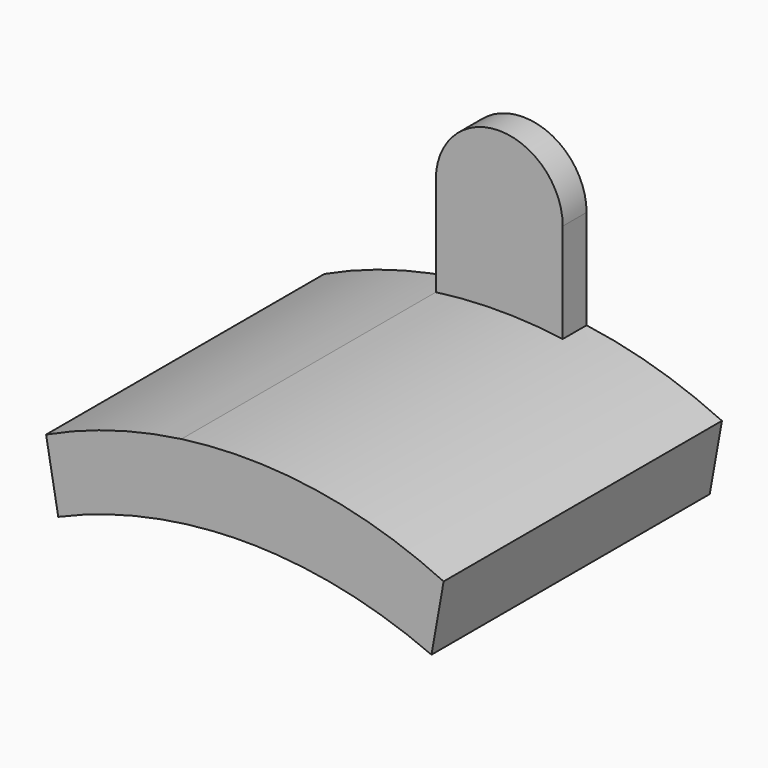
from build123d import *

# Parameters (mm, degrees)
F1_DEPTH = 44.45
F2_DEPTH = 3.81
F3_DEPTH = 38.1
F5_DEPTH = 8.1202849069


with BuildPart() as f1:
    # F0 (on Front) → F1 (new body)
    with BuildSketch(Plane.XZ):
        with BuildLine():
            Line((23.84425, -8.7528133727), (25.4, 0))
            ThreePointArc((25.4, 0), (16.9476626833, 3.2174213406), (8.1062559696, 5.1209269282))
            ThreePointArc((8.1062559696, 5.1209269282), (0, 5.6739273919), (-8.1062559696, 5.1209269282))
            ThreePointArc((-8.1062559696, 5.1209269282), (-16.9476626833, 3.2174213406), (-25.4, 0))
            Line((-25.4, 0), (-23.84425, -8.7528133727))
            ThreePointArc((-23.84425, -8.7528133727), (-14.1597566071, -5.4872651146), (-4.0601424534, -3.9216944037))
            ThreePointArc((-4.0601424534, -3.9216944037), (0, -3.7834478897), (4.0601424534, -3.9216944037))
            ThreePointArc((4.0601424534, -3.9216944037), (14.1597566071, -5.4872651146), (23.84425, -8.7528133727))
        make_face()
    extrude(amount=F1_DEPTH)

    # F0 (on Front) → F2 (join)
    with BuildSketch(Plane.XZ):
        with BuildLine():
            ThreePointArc((-8.1062559696, 5.1209269282), (0, 5.6739273919), (8.1062559696, 5.1209269282))
            Line((8.1062559696, 5.1209269282), (8.1062559696, 17.8209269282))
            ThreePointArc((8.1062559696, 17.8209269282), (0, 25.9271828978), (-8.1062559696, 17.8209269282))
            Line((-8.1062559696, 17.8209269282), (-8.1062559696, 5.1209269282))
        make_face()
    extrude(amount=F2_DEPTH)

    # F0 (on Front) → F3 (join)
    with BuildSketch(Plane.XZ):
        with BuildLine():
            Line((4.0601424534, -25.0733971224), (4.0601424534, -3.9216944037))
            ThreePointArc((4.0601424534, -3.9216944037), (0, -3.7834478897), (-4.0601424534, -3.9216944037))
            Line((-4.0601424534, -3.9216944037), (-4.0601424534, -25.0733971224))
            Line((-4.0601424534, -25.0733971224), (0, -25.0733971224))
            Line((0, -25.0733971224), (4.0601424534, -25.0733971224))
        make_face()
    extrude(amount=F3_DEPTH)

    # F4 (on face) → F5 (cut, through all)
    with BuildSketch(Plane(origin=(-4.0601424534, 0, 0), x_dir=(0, -1, 0), z_dir=(-1, 0, 0))):
        Polygon((33.02, -3.9216944037), (5.08, -3.9216944037), (5.08, -21.8192890118), align=None)
        Polygon((38.1, -3.9216944037), (5.08, -25.0733971224), (38.1, -25.0733971224), align=None)
    extrude(amount=-F5_DEPTH, mode=Mode.SUBTRACT)


solid = f1.part
